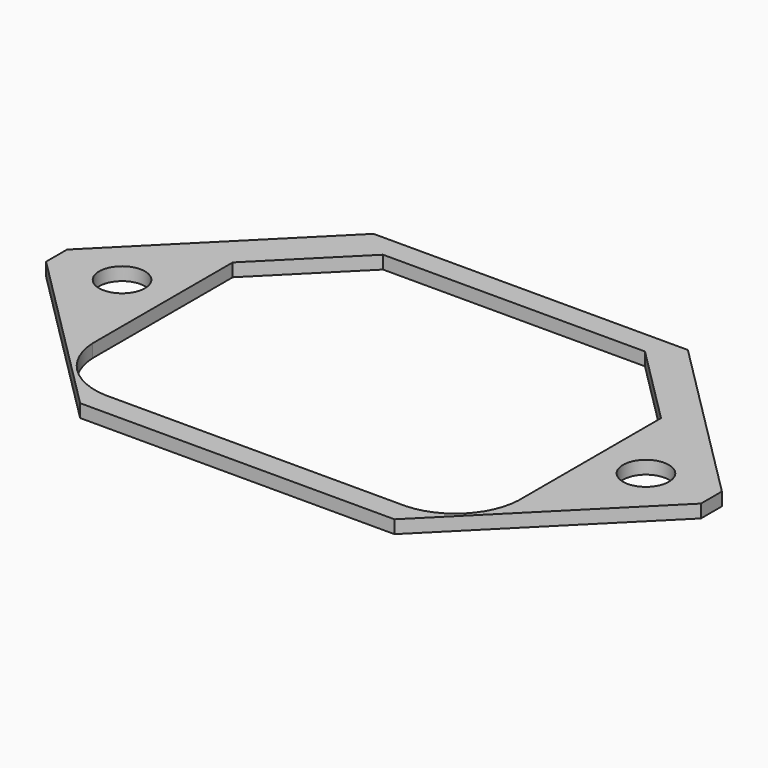
from build123d import *

# Parameters (mm, degrees)
F0_R     = 1.75
F1_DEPTH = 1


with BuildPart() as f1:
    # F0 (on Top) → F1 (new body)
    with BuildSketch(Plane.XY):
        Polygon((12, 14), (-12, 14), (-25, 1), (-25, -1), (-12, -14), (12, -14), (25, -1), (25, 1), align=None)
        with Locations((-20, 0)):
            Circle(F0_R, mode=Mode.SUBTRACT)
        with BuildLine():
            Line((-16.25, 5.875), (-9.875, 12.25))
            Line((-9.875, 12.25), (10.125, 12.25))
            Line((10.125, 12.25), (16.25, 6.125))
            Line((16.25, 6.125), (16.25, -7.5))
            ThreePointArc((16.25, -7.5), (14.791493, -10.791493), (11.5, -12.25))
            Line((11.5, -12.25), (-11.5, -12.25))
            ThreePointArc((-11.5, -12.25), (-14.791493, -10.791493), (-16.25, -7.5))
            Line((-16.25, -7.5), (-16.25, 5.875))
        make_face(mode=Mode.SUBTRACT)
        with Locations((20, 0)):
            Circle(F0_R, mode=Mode.SUBTRACT)
    extrude(amount=F1_DEPTH)


solid = f1.part
